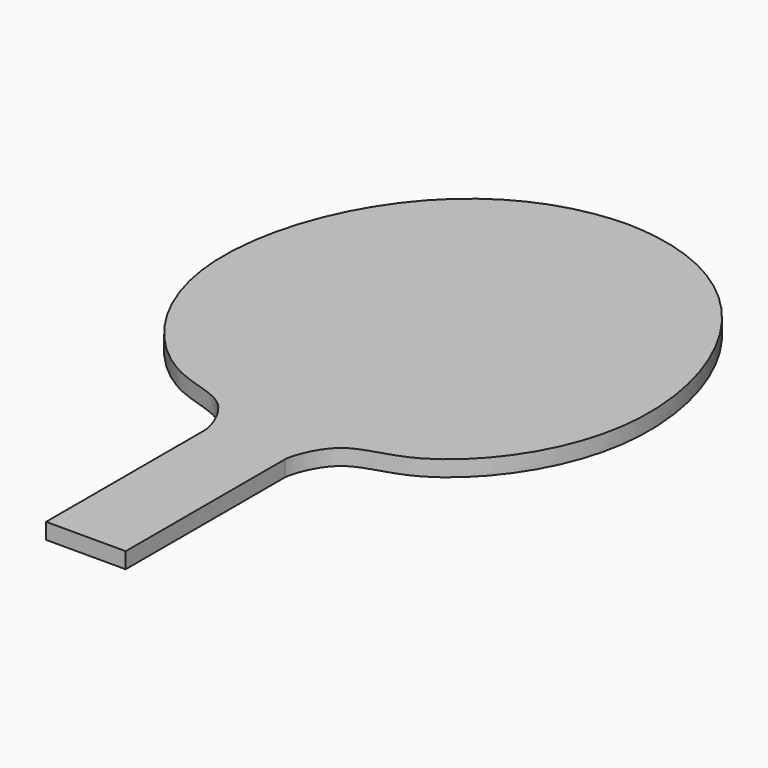
from build123d import *

# Parameters (mm, degrees)
F1_DEPTH = 6


with BuildPart() as f1:
    # F0 (on Top) → F1 (new body)
    with BuildSketch(Plane.XY):
        with BuildLine():
            Line((-15, 0), (0, 0))
            Line((0, 0), (15, 0))
            Line((15, 0), (15, 75))
            add(Edge.make_bspline(
                [(15, 75), (15.0996175271, 78.0838948224), (21.2317025835, 95.3312189931), (49.470208468, 95.0089612224), (102.2642219491, 159.5436369498), (55.8704061335, 253.984279461), (0, 255)],
                knots=[0, 0, 0, 0, 0.1437570514, 0.3176903126, 0.6096305124, 1, 1, 1, 1], degree=3))
            add(Edge.make_bspline(
                [(-15, 75), (-15.0996175271, 78.0838948224), (-21.2317025835, 95.3312189931), (-49.470208468, 95.0089612224), (-102.2642219491, 159.5436369498), (-55.8704061335, 253.984279461), (0, 255)],
                knots=[0, 0, 0, 0, 0.1437570514, 0.3176903126, 0.6096305124, 1, 1, 1, 1], degree=3))
            Line((-15, 75), (-15, 0))
        make_face()
    extrude(amount=F1_DEPTH)


solid = f1.part
